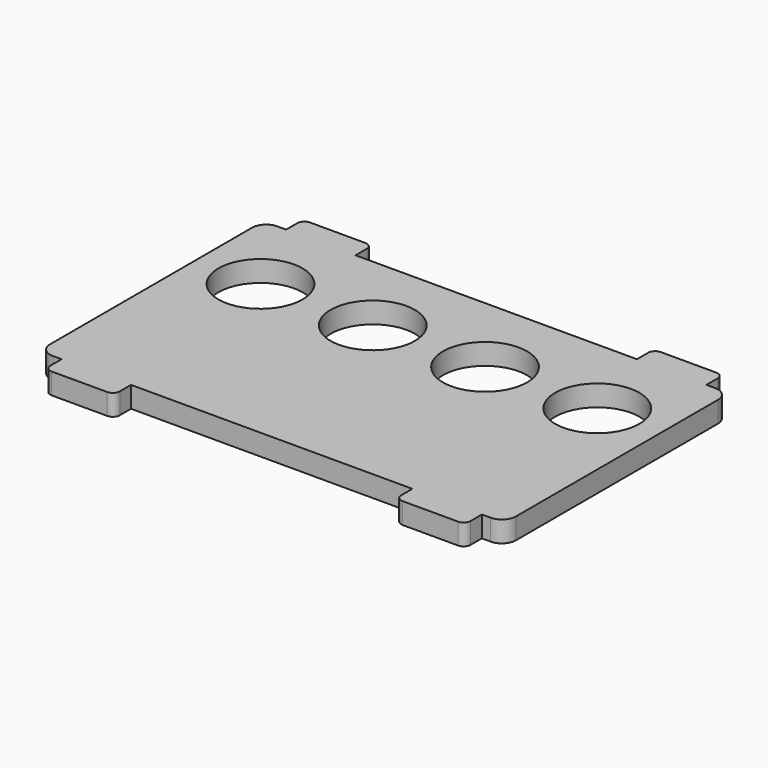
from build123d import *

# Parameters (mm, degrees)
SKETCH_R    = 6
PAD_DEPTH   = 3
FILLET_R    = 2
FILLET001_R = 1


with BuildPart() as part:
    # Sketch → Pad (new body)
    with BuildSketch(Plane.XY):
        Polygon((12.035368, 26.667595), (12.035368, -13.332405), (8.785368, -13.332405), (8.785368, -16.332405), (-1.114632, -16.332405), (-1.114632, -13.332405), (-41.214632, -13.332405), (-41.214632, -16.332405), (-51.114632, -16.332405), (-51.114632, -13.332405), (-54.364632, -13.332405), (-54.364632, 26.667595), (-51.114632, 26.667595), (-51.114632, 29.667595), (-41.214632, 29.667595), (-41.214632, 26.667595), (-1.114632, 26.667595), (-1.114632, 29.667595), (8.785368, 29.667595), (8.785368, 26.667595), align=None)
        with Locations((-45.167672, 14.667595)):
            Circle(SKETCH_R, mode=Mode.SUBTRACT)
        with Locations((-29.167672, 14.667595)):
            Circle(SKETCH_R, mode=Mode.SUBTRACT)
        with Locations((-13.167672, 14.667595)):
            Circle(SKETCH_R, mode=Mode.SUBTRACT)
        with Locations((2.832328, 14.667595)):
            Circle(SKETCH_R, mode=Mode.SUBTRACT)
    extrude(amount=PAD_DEPTH)

    # Fillet
    fillet_edges = [part.edges().sort_by_distance(p)[0] for p in [
        (-54.364632, 26.667595, 1.5),
        (-54.364632, -13.332405, 1.5),
        (12.035368, -13.332405, 1.5),
        (12.035368, 26.667595, 1.5),
    ]]
    fillet(fillet_edges, radius=FILLET_R)

    # Fillet001
    fillet001_edges = [part.edges().sort_by_distance(p)[0] for p in [
        (8.785368, 29.667595, 1.5),
        (-1.114632, 29.667595, 1.5),
        (-41.214632, 29.667595, 1.5),
        (-51.114632, 29.667595, 1.5),
        (-51.114632, -16.332405, 1.5),
        (-41.214632, -16.332405, 1.5),
        (-1.114632, -16.332405, 1.5),
        (8.785368, -16.332405, 1.5),
    ]]
    fillet(fillet001_edges, radius=FILLET001_R)


solid = part.part
